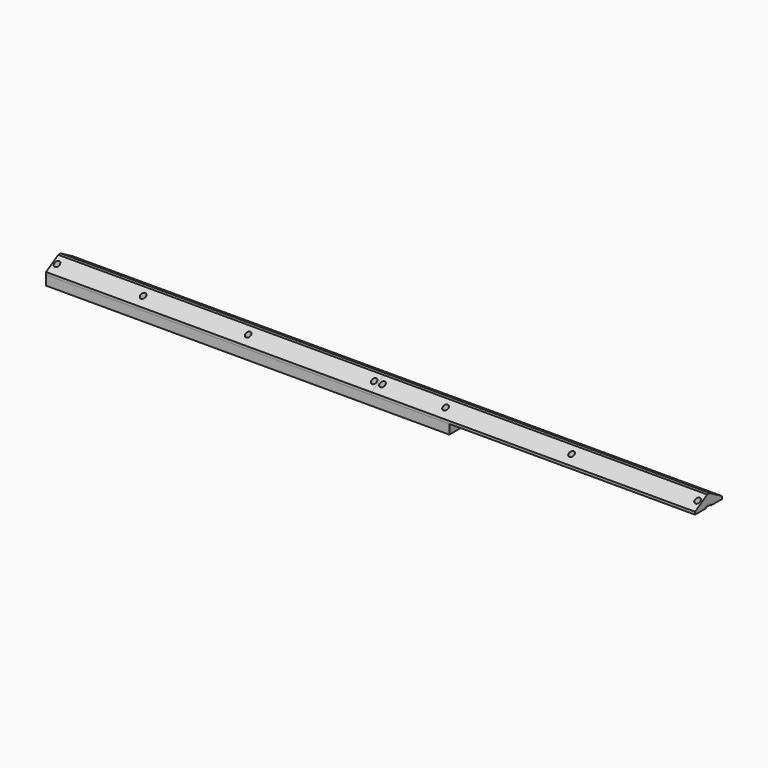
from build123d import *

# Parameters (mm, degrees)
F0_W            = 1955.8
F0_H            = 203.2
F1_DEPTH        = 75.5904
F3_D            = 23.8125
F3_CBORE_D      = 31.75
F3_CBORE_DEPTH  = 63.5
F5_DEPTH        = 1955.801
F6_W            = 1955.8
F6_H            = 38.1
F7_DEPTH        = 6.35
F8_W            = 1968.5
F8_H            = 203.2
F10_DEPTH       = 75.5904
F12_D           = 23.8125
F12_CBORE_D     = 31.75
F12_CBORE_DEPTH = 63.5
F14_DEPTH       = 1968.501
F15_W           = 2438.4
F15_H           = 171.45
F16_DEPTH       = 57.15
F17_D           = 16.66748
F17_DEPTH       = 45.72
F17_TIP         = 5.0074161752
F18_W           = 38.1
F18_H           = 6.35
F19_DEPTH       = 1968.501
F20_W           = 38.1
F20_H           = 6.35
F21_DEPTH       = 2438.401


with BuildPart() as f1:
    # F0 (on Top) → F1 (new body)
    with BuildSketch(Plane.XY):
        Rectangle(F0_W, F0_H)
    extrude(amount=F1_DEPTH)

    # F3 (through all)
    with Locations(Plane.XY.offset(75.5904)):
        with Locations((-952.5, 50.8), (-952.5, -50.8), (-571.5, -50.8), (-190.5, 50.8), (190.5, -50.8), (571.5, 50.8), (952.5, -50.8), (952.5, 50.8)):
            CounterBoreHole(F3_D / 2, F3_CBORE_D / 2, F3_CBORE_DEPTH)

    # F4 (on face) → F5 (cut, through all)
    with BuildSketch(Plane.YZ.offset(977.9)):
        Polygon((9.9143350604, 69.85), (101.6, 16.764), (101.6, 75.5904), (-101.6, 75.5904), (-101.6, 15.875), (-9.7667375585, 69.85), align=None)
    extrude(amount=-F5_DEPTH, mode=Mode.SUBTRACT)

    # F6 (on face) → F7 (cut)
    with BuildSketch(Plane(origin=(0, 0, 0), x_dir=(1, 0, 0), z_dir=(0, 0, -1))):
        Rectangle(F6_W, F6_H)
    extrude(amount=-F7_DEPTH, mode=Mode.SUBTRACT)


with BuildPart() as f10:
    # F8 (on Top) → F10 (new body)
    with BuildSketch(Plane.XY):
        with Locations((-1962.15, 0)):
            Rectangle(F8_W, F8_H)
    extrude(amount=F10_DEPTH)

    # F12 (through all)
    with Locations(Plane.XY.offset(75.5904)):
        with Locations((-1003.3, 50.8), (-1003.3, -50.8), (-1384.3, 50.8), (-1765.3, -50.8), (-2146.3, 50.8), (-2400.3, 50.8), (-2400.3, -50.8), (-2921, 50.8), (-2921, -50.8)):
            CounterBoreHole(F12_D / 2, F12_CBORE_D / 2, F12_CBORE_DEPTH)

    # F13 (on face) → F14 (cut, through all)
    with BuildSketch(Plane.YZ.offset(-977.9)):
        Polygon((-101.6, 75.5904), (-101.6, 15.875), (-9.7667375585, 69.85), (9.9143350604, 69.85), (101.6, 16.764), (101.6, 75.5904), align=None)
    extrude(amount=-F14_DEPTH, mode=Mode.SUBTRACT)

    # F18 (on face) → F19 (cut, through all)
    with BuildSketch(Plane.YZ.offset(-977.9)):
        with Locations((0, 3.175)):
            Rectangle(F18_W, F18_H)
    extrude(amount=-F19_DEPTH, mode=Mode.SUBTRACT)


with BuildPart() as f16:
    # F15 (on Top) → F16 (new body)
    with BuildSketch(Plane.XY):
        with Locations((-1727.2, -15.875)):
            Rectangle(F15_W, F15_H)
    extrude(amount=-F16_DEPTH)

    # F17
    with Locations(Plane.XY):
        with Locations((-571.5, -50.8), (-952.5, -50.8), (-952.5, 50.8), (-1003.3, 50.8), (-1003.3, -50.8), (-1384.3, 50.8), (-1765.3, -50.8), (-2146.3, 50.8), (-2400.3, 50.8), (-2400.3, -50.8), (-2921, 50.8), (-2921, -50.8)):
            Hole(F17_D / 2, depth=F17_DEPTH)
            with Locations((0, 0, -(F17_DEPTH + F17_TIP / 2))):  # 118° drill point
                Cone(0, F17_D / 2, F17_TIP, mode=Mode.SUBTRACT)

    # F20 (on face) → F21 (cut, through all)
    with BuildSketch(Plane.YZ.offset(-508)):
        with Locations((0, -3.175)):
            Rectangle(F20_W, F20_H)
    extrude(amount=-F21_DEPTH, mode=Mode.SUBTRACT)


solid = Compound([f1.part, f10.part, f16.part])
